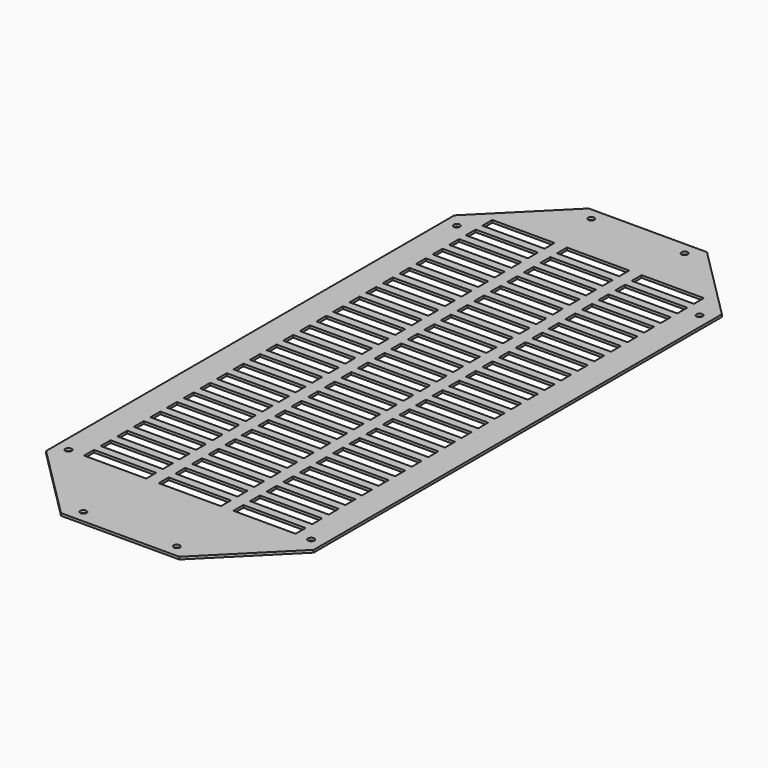
from build123d import *

# Parameters (mm, degrees)
SKETCH_R            = 2.5
PAD_DEPTH           = 2
SKETCH001_W         = 50
SKETCH001_H         = 10
POCKET_DEPTH        = 5
LINEARPATTERN_COUNT = 25
LINEARPATTERN_PITCH = 16.666667


with BuildPart() as part:
    # Sketch → Pad (new body)
    with BuildSketch(Plane.XY):
        Polygon((-15, 277.5), (80, 277.5), (140, 217.5), (140, -192.5), (80, -252.5), (-15, -252.5), (-75, -192.5), (-75, 217.5), align=None)
        with Locations((-5, 267.5)):
            Circle(SKETCH_R, mode=Mode.SUBTRACT)
        with Locations((70, 267.5)):
            Circle(SKETCH_R, mode=Mode.SUBTRACT)
        with Locations((-65, 207.5)):
            Circle(SKETCH_R, mode=Mode.SUBTRACT)
        with Locations((-65, -182.5)):
            Circle(SKETCH_R, mode=Mode.SUBTRACT)
        with Locations((-5, -242.5)):
            Circle(SKETCH_R, mode=Mode.SUBTRACT)
        with Locations((70, -242.5)):
            Circle(SKETCH_R, mode=Mode.SUBTRACT)
        with Locations((130, -182.5)):
            Circle(SKETCH_R, mode=Mode.SUBTRACT)
        with Locations((130, 207.5)):
            Circle(SKETCH_R, mode=Mode.SUBTRACT)
    extrude(amount=PAD_DEPTH)

    # Sketch001 → Pocket (cut)
    with BuildSketch(Plane.XY.offset(2)):
        with Locations((-27.5, 222.5)):
            Rectangle(SKETCH001_W, SKETCH001_H)
        with Locations((92.5, 222.5)):
            Rectangle(SKETCH001_W, SKETCH001_H)
        with Locations((32.5, 222.5)):
            Rectangle(SKETCH001_W, SKETCH001_H)
    pocket = extrude(amount=-POCKET_DEPTH, mode=Mode.SUBTRACT)

    # LinearPattern: Pocket ×25
    with Locations(*[(0, -i * LINEARPATTERN_PITCH, 0) for i in range(1, LINEARPATTERN_COUNT)]):
        add(pocket, mode=Mode.SUBTRACT)


solid = part.part
